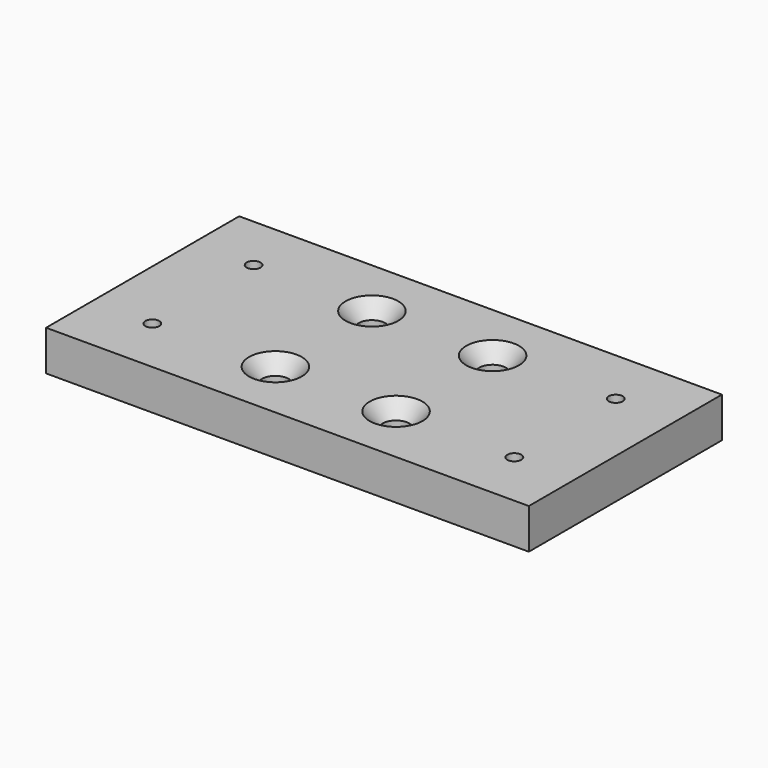
from build123d import *

# Parameters (mm, degrees)
F0_W           = 152.4
F0_H           = 76.2
F1_DEPTH       = 6.35
F3_D           = 8.4328
F3_CSINK_D     = 16.6624
F3_CSINK_ANGLE = 82
F5_D           = 4.4
F5_CSINK_D     = 8.96
F5_CSINK_ANGLE = 90


with BuildPart() as f1:
    # F0 (on Top) → F1 (new body, symmetric)
    with BuildSketch(Plane.XY):
        Rectangle(F0_W, F0_H)
    extrude(amount=F1_DEPTH, both=True)

    # F3 (through all)
    with Locations(Plane.XY.offset(6.35)):
        with Locations((-19.05, 19.05), (19.05, 19.05), (19.05, -19.05), (-19.05, -19.05)):
            CounterSinkHole(F3_D / 2, F3_CSINK_D / 2, counter_sink_angle=F3_CSINK_ANGLE)

    # F5 (through all)
    with Locations(Plane(origin=(0, 0, -6.35), x_dir=(1, 0, 0), z_dir=(0, 0, -1))):
        with Locations((-57.15, 20), (57.15, 20), (57.15, -20), (-57.15, -20)):
            CounterSinkHole(F5_D / 2, F5_CSINK_D / 2, counter_sink_angle=F5_CSINK_ANGLE)


solid = f1.part
